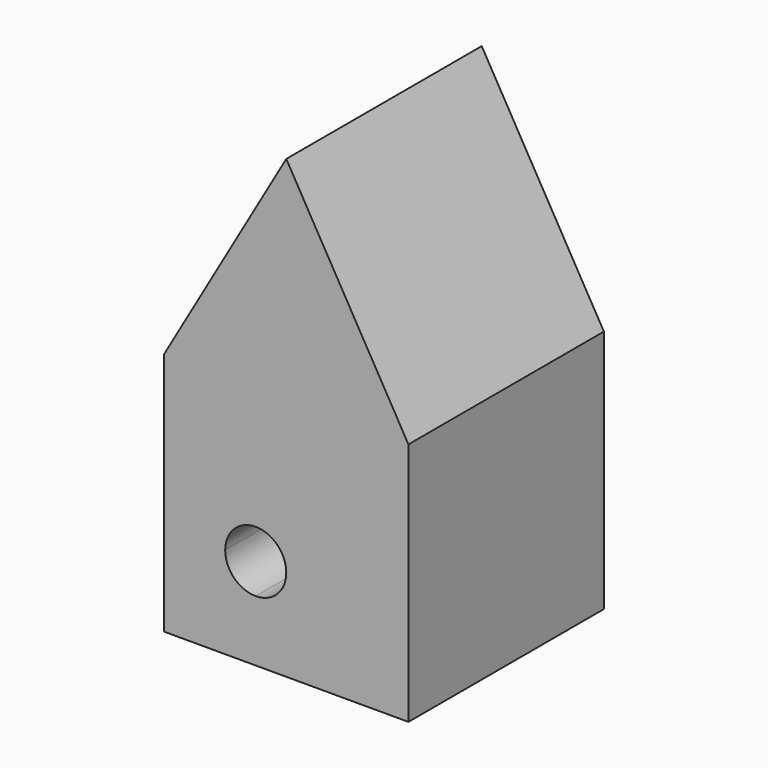
from build123d import *

# Parameters (mm, degrees)
F1_DEPTH = 50.8


with BuildPart() as f1:
    # F0 (on Front) → F1 (new body)
    with BuildSketch(Plane.XZ):
        Polygon((14.59579, 55.546898), (-10.80421, 11.552808), (8.24579, 11.552808), (39.99579, 11.552808), align=None)
        with BuildLine():
            Line((8.24579, 11.552808), (-10.80421, 11.552808))
            Line((-10.80421, 11.552808), (-10.80421, -20.197192))
            Line((-10.80421, -20.197192), (1.89579, -20.197192))
            ThreePointArc((1.89579, -20.197192), (3.755661, -15.707064), (8.24579, -13.847192))
            Line((8.24579, -13.847192), (8.24579, 11.552808))
        make_face()
        with BuildLine():
            Line((39.99579, 11.552808), (8.24579, 11.552808))
            Line((8.24579, 11.552808), (8.24579, -13.847192))
            ThreePointArc((8.24579, -13.847192), (12.735918, -15.707064), (14.59579, -20.197192))
            Line((14.59579, -20.197192), (39.99579, -20.197192))
            Line((39.99579, -20.197192), (39.99579, 11.552808))
        make_face()
        with BuildLine():
            Line((1.89579, -20.197192), (-10.80421, -20.197192))
            Line((-10.80421, -20.197192), (-10.80421, -39.247192))
            Line((-10.80421, -39.247192), (8.24579, -39.247192))
            Line((8.24579, -39.247192), (8.24579, -26.547192))
            ThreePointArc((8.24579, -26.547192), (3.755661, -24.687321), (1.89579, -20.197192))
        make_face()
        with BuildLine():
            Line((39.99579, -39.247192), (39.99579, -20.197192))
            Line((39.99579, -20.197192), (14.59579, -20.197192))
            ThreePointArc((14.59579, -20.197192), (12.735918, -24.687321), (8.24579, -26.547192))
            Line((8.24579, -26.547192), (8.24579, -39.247192))
            Line((8.24579, -39.247192), (39.99579, -39.247192))
        make_face()
    extrude(amount=F1_DEPTH)


solid = f1.part
